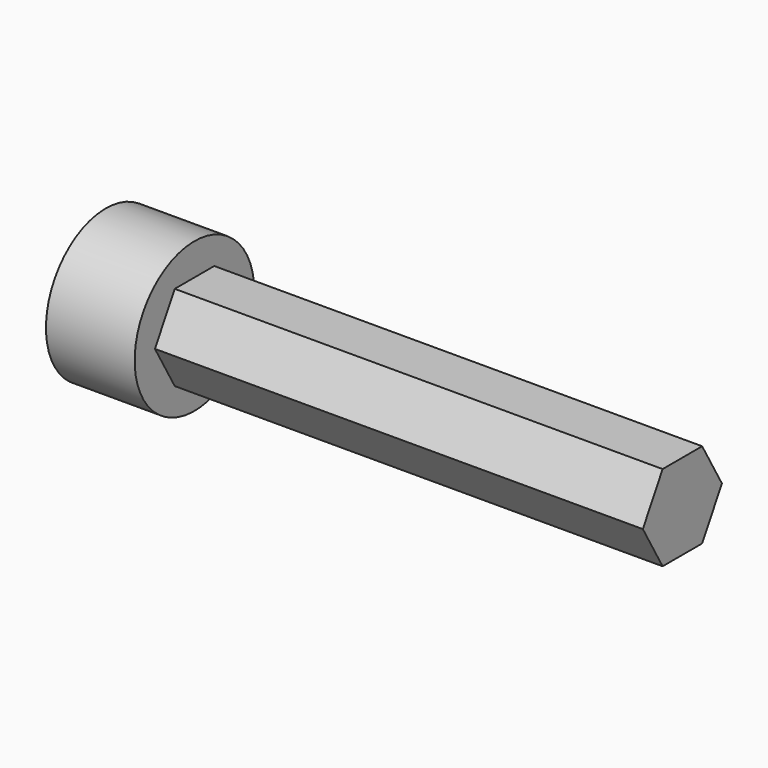
from build123d import *

# Parameters (mm, degrees)
PAD005_DEPTH       = 21
SKETCH017_R        = 5.9
PAD006_DEPTH       = 3.5
POCKET007_DEPTH    = 3.5
POLARPATTERN_COUNT = 60


with BuildPart() as part:
    # Sketch016 (on CopyDatumPlane) → Pad005 (new body, symmetric)
    with BuildSketch(Plane(origin=(0, -27.442485, 215), x_dir=(0, 1, 0), z_dir=(1, 0, 0))):
        Polygon((3.9, 0), (1.95, 3.377499), (-1.95, 3.377499), (-3.9, 0), (-1.95, -3.377499), (1.95, -3.377499), align=None)
    extrude(amount=PAD005_DEPTH, both=True)

    # Sketch017 (on Face7 of Pad005) → Pad006 (join, symmetric)
    with BuildSketch(Plane(origin=(-21, -27.442485, 215), x_dir=(0, 1, 0), z_dir=(-1, 0, 0))):
        Circle(SKETCH017_R)
    extrude(amount=PAD006_DEPTH, both=True)

    # Sketch018 (on Face10 of Pad006) → Pocket007 (cut)
    with BuildSketch(Plane(origin=(-24.5, -27.442485, 215), x_dir=(0, 1, 0), z_dir=(-1, 0, 0))):
        Polygon((0, 0), (0, 2.375), (-0.098057, 2.473057), (-0.160985, 2.469759), (-0.248255, 2.36199), align=None)
    pocket007 = extrude(amount=-POCKET007_DEPTH, mode=Mode.SUBTRACT)

    # PolarPattern: Pocket007 ×60 about axis
    polarpattern_axis = Axis((-24.5, -27.442485, 215), (-1, 0, 0))
    for i in range(1, POLARPATTERN_COUNT):
        add(pocket007.rotate(polarpattern_axis, i * 360 / POLARPATTERN_COUNT), mode=Mode.SUBTRACT)


solid = part.part
